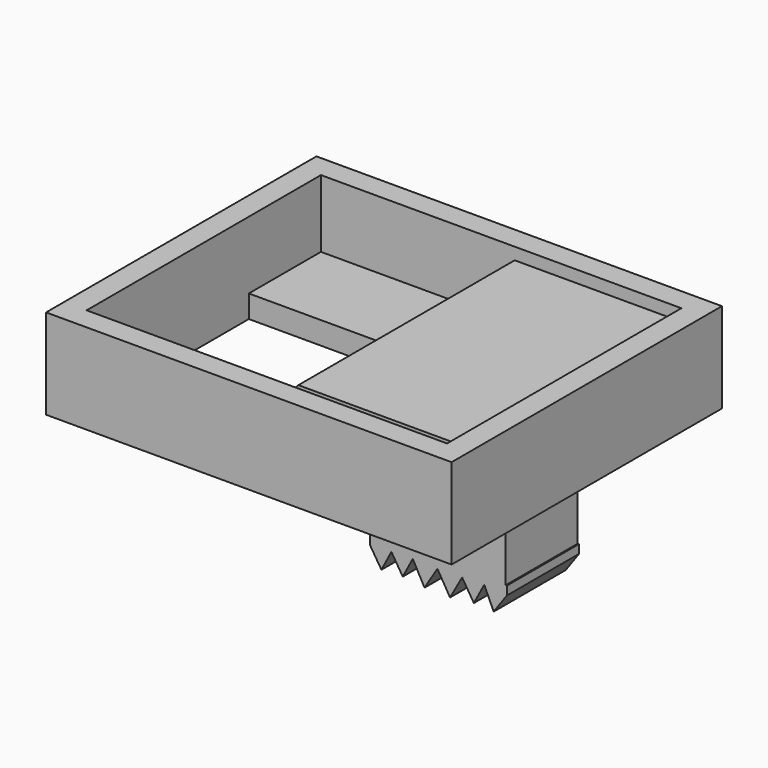
from build123d import *

# Parameters (mm, degrees)
PAD_DEPTH       = 4
BOX055_W        = 6
BOX055_H        = 4
BOX055_DEPTH    = 5
BOX053_W        = 16
BOX053_H        = 5
BOX053_DEPTH    = 10
BOX052_W        = 16
BOX052_H        = 13
BOX052_DEPTH    = 3
BOX051_W        = 18
BOX051_H        = 15
BOX051_DEPTH    = 4
BOX054_W        = 8
BOX054_H        = 12
BOX054_DEPTH    = 2.8
CHAMFER002_SIZE = 1


with BuildPart() as pad:
    # Sketch → Pad (new body)
    with BuildSketch(Plane.XZ):
        Polygon((1.974622, -4.079123), (2.485922, -4.884556), (2.927797, -4.039041), (3.431991, -4.84464), (3.877564, -4.005196), (4.398553, -4.963919), (4.968336, -4.033368), (5.532483, -4.976998), (6.067618, -4.016618), (6.588753, -4.85016), (7.050054, -3.982073), (7.468007, -4.900089), (8.054056, -4.079123), (8.054056, -3.693932), (1.974622, -3.693932), align=None)
    extrude(amount=PAD_DEPTH)


with BuildPart() as fusion002029:
    # Box055 → Box055 (new body)
    with BuildSketch(Plane(origin=(2, -4, -4), x_dir=(1, 0, 0), z_dir=(0, 0, 1))):
        with Locations((3, 2)):
            Rectangle(BOX055_W, BOX055_H)
    extrude(amount=BOX055_DEPTH)

    # Fusion002029: union Pad
    add(pad.part)


with BuildPart() as fusion002029_1:
    # Fusion002029 placement: moved
    add(fusion002029.part.moved(Location((8, 9.5, 0))))


with BuildPart() as cubo053:
    # Box053 → Box053 (new body)
    with BuildSketch(Plane(origin=(1, 5, -5), x_dir=(1, 0, 0), z_dir=(0, 0, 1))):
        with Locations((8, 2.5)):
            Rectangle(BOX053_W, BOX053_H)
    extrude(amount=BOX053_DEPTH)


with BuildPart() as cubo052:
    # Box052 → Box052 (new body)
    with BuildSketch(Plane(origin=(1, 1, 1), x_dir=(1, 0, 0), z_dir=(0, 0, 1))):
        with Locations((8, 6.5)):
            Rectangle(BOX052_W, BOX052_H)
    extrude(amount=BOX052_DEPTH)


with BuildPart() as cut074:
    # Box051 → Box051 (new body)
    with BuildSketch(Plane.XY):
        with Locations((9, 7.5)):
            Rectangle(BOX051_W, BOX051_H)
    extrude(amount=BOX051_DEPTH)

    # Cut073: cut Cubo052
    add(cubo052.part, mode=Mode.SUBTRACT)

    # Cut074: cut Cubo053
    add(cubo053.part, mode=Mode.SUBTRACT)


with BuildPart() as fusion002030:
    # Box054 → Box054 (new body)
    with BuildSketch(Plane(origin=(8, 1.5, 1), x_dir=(1, 0, 0), z_dir=(0, 0, 1))):
        with Locations((4, 6)):
            Rectangle(BOX054_W, BOX054_H)
    extrude(amount=BOX054_DEPTH)

    # Chamfer002
    chamfer002_edges = [fusion002030.edges().sort_by_distance(p)[0] for p in [
        (8, 7.5, 3.8),
    ]]
    chamfer(chamfer002_edges, length=CHAMFER002_SIZE)


with BuildPart() as fusion002030_1:
    # Chamfer002 placement: moved
    add(fusion002030.part.moved(Location((1, 0, 0))))

    # Fusion002030: union Fusion002029, Cut074
    add(fusion002029_1.part)
    add(cut074.part)


with BuildPart() as fusion002030_2:
    # Fusion002030 placement: moved
    add(fusion002030_1.part.moved(Location((-37, 52, 30))))


solid = fusion002030_2.part
